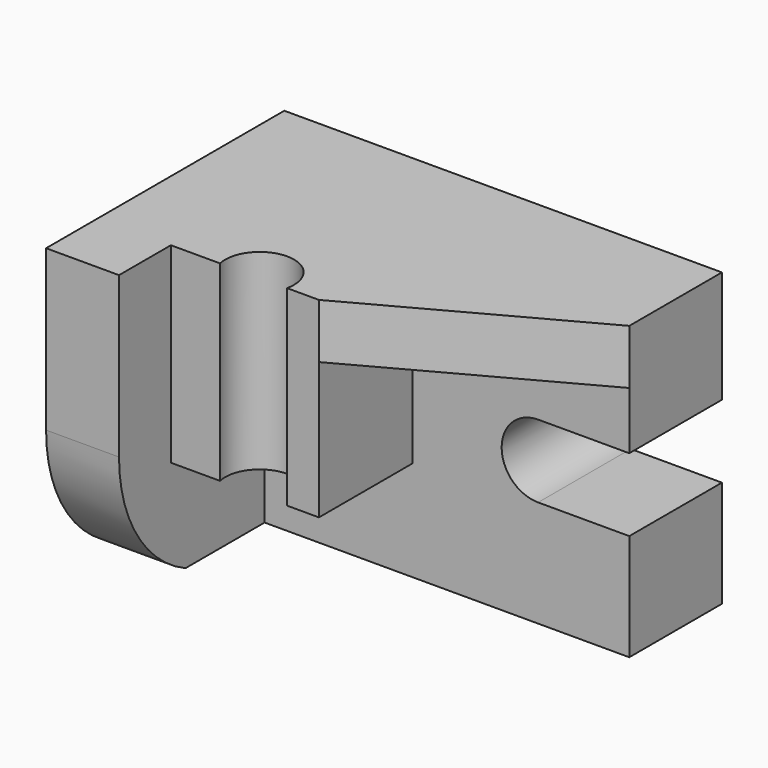
from build123d import *

# Parameters (mm, degrees)
F0_W     = 96
F0_H     = 64
F1_DEPTH = 25.4
F2_W     = 20
F2_H     = 16
F3_DEPTH = 25.4
F5_DEPTH = 16
F7_DEPTH = 42
F9_DEPTH = 12


with BuildPart() as f1:
    # F0 (on Front) → F1 (new body)
    with BuildSketch(Plane.XZ):
        with Locations((-0.479123, -7.401277)):
            Rectangle(F0_W, F0_H)
    extrude(amount=F1_DEPTH)

    # F2 (on face) → F3 (cut)
    with BuildSketch(Plane.XZ.offset(25.4)):
        with BuildLine():
            Line((27.520877, -16), (27.520877, 0))
            ThreePointArc((27.520877, 0), (19.520877, -8), (27.520877, -16))
        make_face()
        with Locations((37.520877, -8)):
            Rectangle(F2_W, F2_H)
    extrude(amount=-F3_DEPTH, mode=Mode.SUBTRACT)

    # F4 (on face) → F5 (join)
    with BuildSketch(Plane(origin=(-48.479123, 0, 0), x_dir=(0, -1, 0), z_dir=(-1, 0, 0))):
        with BuildLine():
            Line((65.310675, 24.598723), (25.4, 24.598723))
            Line((25.4, 24.598723), (25.4, -39.401277))
            Line((25.4, -39.401277), (47.101744, -39.401277))
            ThreePointArc((47.101744, -39.401277), (60.378314, -27.594341), (65.310675, -10.525571))
            Line((65.310675, -10.525571), (65.310675, 24.598723))
        make_face()
    extrude(amount=-F5_DEPTH)

    # F6 (on face) → F7 (join)
    with BuildSketch(Plane.XY.offset(24.598723)):
        with BuildLine():
            Line((0, -25.4), (-32.479123, -25.4))
            Line((-32.479123, -25.4), (-32.479123, -51.092945))
            Line((-32.479123, -51.092945), (-21.691002, -51.092945))
            ThreePointArc((-21.691002, -51.092945), (-14.349926, -41.873779), (-7.008849, -51.092945))
            Line((-7.008849, -51.092945), (0, -51.092945))
            Line((0, -51.092945), (0, -25.4))
        make_face()
    extrude(amount=-F7_DEPTH)

    # F8 (on face) → F9 (join)
    with BuildSketch(Plane.XY.offset(24.598723)):
        Polygon((0, -51.092945), (47.520877, -25.4), (0, -25.4), align=None)
    extrude(amount=-F9_DEPTH)


solid = f1.part
